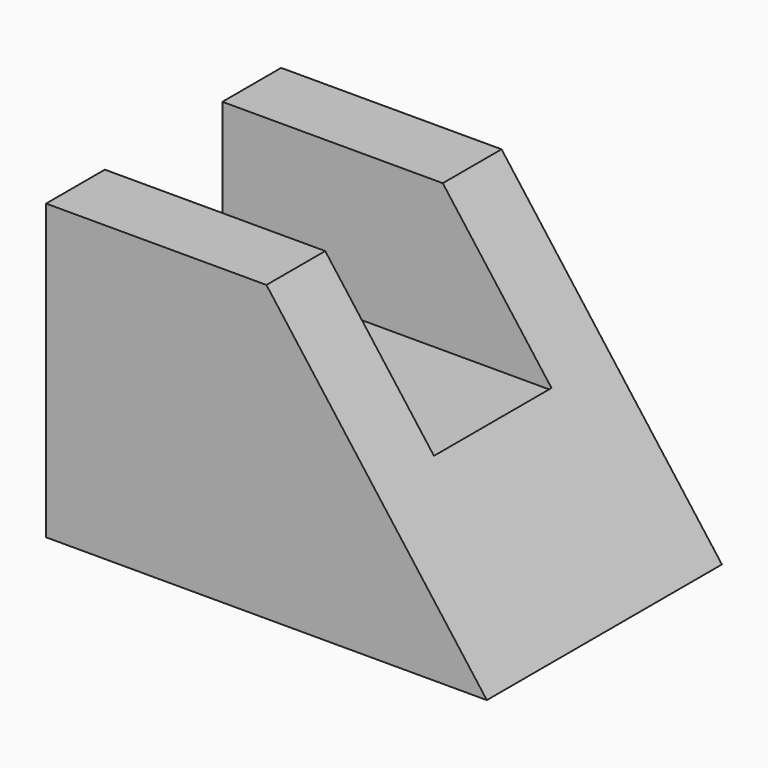
from build123d import *

# Parameters (mm, degrees)
F1_DEPTH = 25.4
F2_W     = 28.448
F2_H     = 12.7
F3_DEPTH = 12.7


with BuildPart() as f1:
    # F0 (on Front) → F1 (new body)
    with BuildSketch(Plane.XZ):
        Polygon((0, 25.4), (0, 0), (38.1, 0), (19.05, 25.4), align=None)
    extrude(amount=F1_DEPTH)

    # F2 (on face) → F3 (cut)
    with BuildSketch(Plane.XY.offset(25.4)):
        with Locations((14.224, -12.7)):
            Rectangle(F2_W, F2_H)
    extrude(amount=-F3_DEPTH, mode=Mode.SUBTRACT)


solid = f1.part
